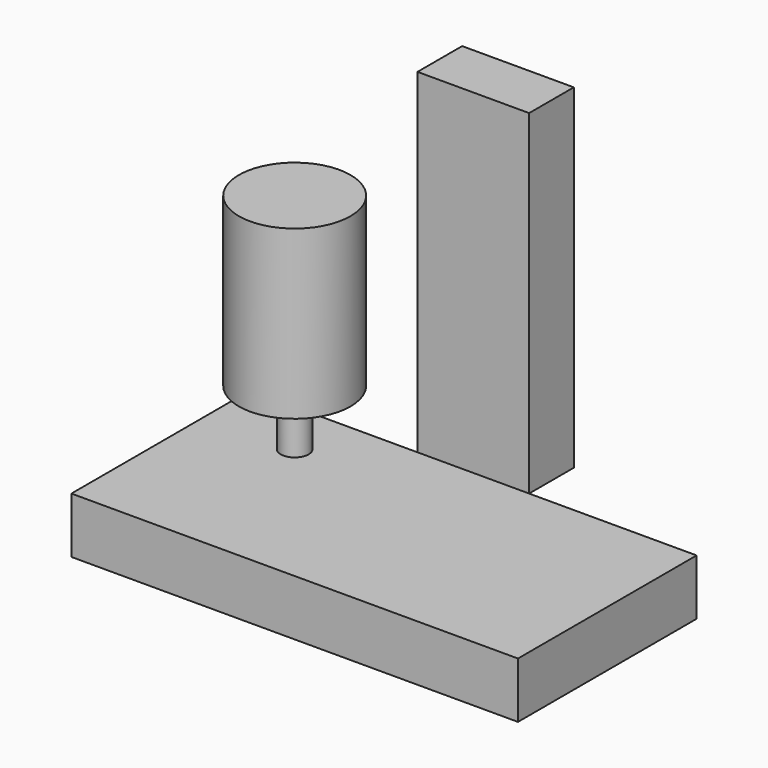
from build123d import *

# Parameters (mm, degrees)
F0_W     = 101.6
F0_H     = 50.8
F1_DEPTH = 12.7
F2_W     = 25.4
F2_H     = 76.2
F3_DEPTH = 12.7
F4_R     = 12.7
F5_DEPTH = 38.1
F6_R     = 3.175
F7_DEPTH = 12.7


with BuildPart() as f1:
    # F0 (on Top) → F1 (new body)
    with BuildSketch(Plane.XY):
        Rectangle(F0_W, F0_H)
    extrude(amount=F1_DEPTH)

    # F2 (on face) → F3 (join)
    with BuildSketch(Plane(origin=(0, 25.4, 0), x_dir=(-1, 0, 0), z_dir=(0, 1, 0))):
        with Locations((0, 50.8)):
            Rectangle(F2_W, F2_H)
    extrude(amount=F3_DEPTH)


with BuildPart() as f5:
    # F4 (on face) → F5 (new body)
    with BuildSketch(Plane.XY.offset(88.9)):
        with Locations((0, -25.4)):
            Circle(F4_R)
    extrude(amount=-F5_DEPTH)

    # F6 (on face) → F7 (join)
    with BuildSketch(Plane(origin=(0, 0, 50.8), x_dir=(1, 0, 0), z_dir=(0, 0, -1))):
        with Locations((0, 25.4)):
            Circle(F6_R)
    extrude(amount=F7_DEPTH)


solid = Compound([f1.part, f5.part])
